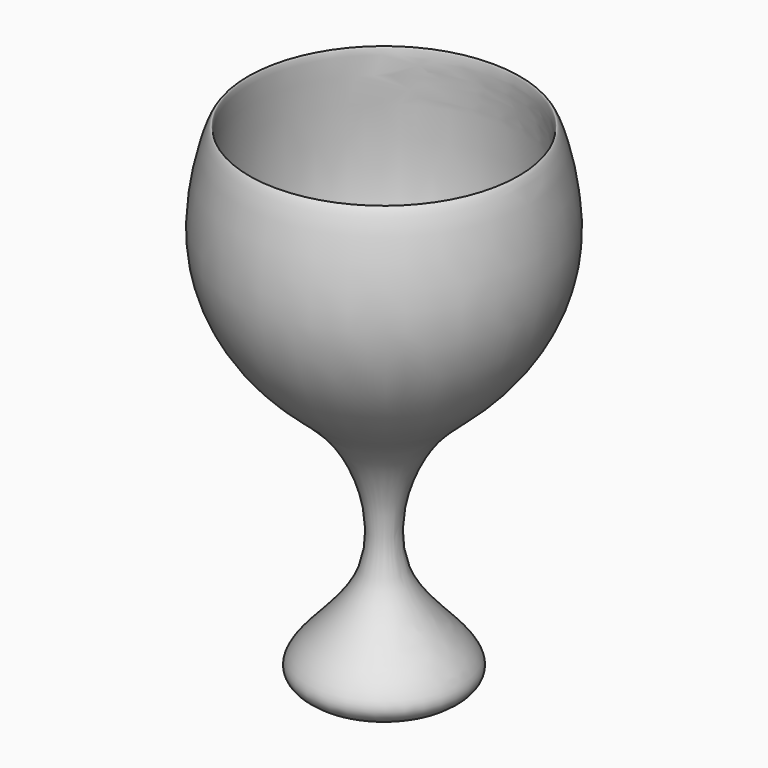
from build123d import *


with BuildPart() as f1:
    # F0 (on Front) → F1 (revolve)
    with BuildSketch(Plane.XZ):
        with BuildLine():
            Line((0, 32.7539292108), (0, 0))
            add(Edge.make_bspline(
                [(0, 0), (4.1446535376, -1.2983907083), (14.609936748, 1.564649483), (-0.8096477796, 11.0609712102), (3.5662919118, 27.140831836), (12.5144244621, 32.5572377128), (21.3786631603, 46.097888509), (13.7858798606, 69.3881960188), (20.2370424212, 32.7132557359), (4.5752490699, 34.0111446039), (0, 32.7539292108)],
                knots=[0, 0, 0, 0, 0.0773804799, 0.162114998, 0.2554235303, 0.335144501, 0.4362041927, 0.5205080327, 0.6356833523, 0.7265871486, 0.7265871486, 0.7265871486, 0.7265871486], degree=3))
        make_face()
    revolve(axis=Axis((0, 0, 37.6826934516), (0, 0, -1)))


solid = f1.part
